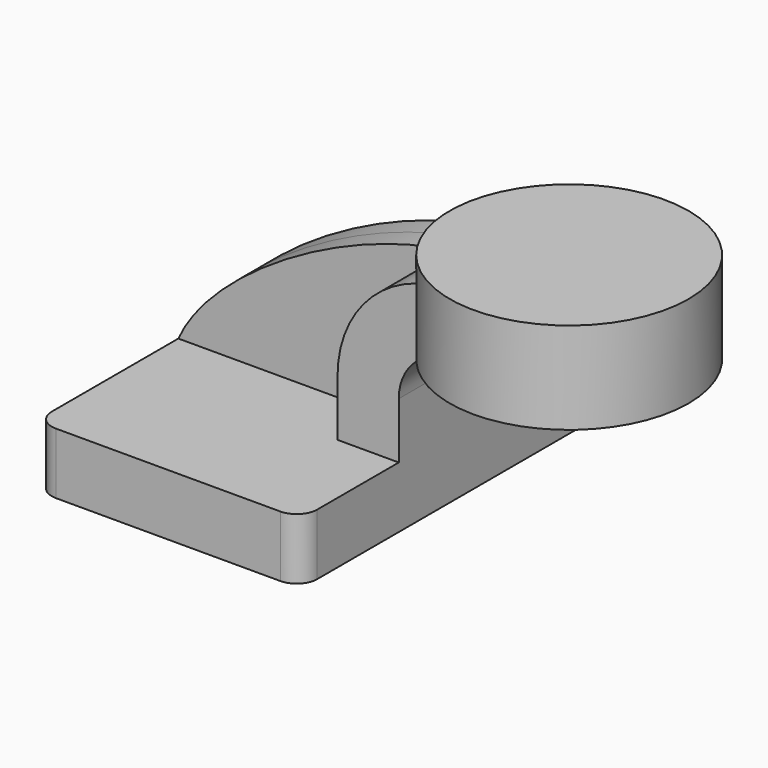
from build123d import *

# Parameters (mm, degrees)
F1_DEPTH = 63.5
F2_DEPTH = 25.4
F3_DEPTH = 7.9375
F0_W     = 37.164882
F0_H     = 28.575
F5_R     = 6.35


with BuildPart() as f1:
    # F0 (on Front) → F1 (new body, symmetric)
    with BuildSketch(Plane.XZ):
        Polygon((-41.275, 9.525), (-41.275, -9.525), (41.275, -9.525), (41.275, 9.525), (22.225, 9.525), align=None)
    extrude(amount=F1_DEPTH, both=True)

    # F0 (on Front) → F2 (join, symmetric)
    with BuildSketch(Plane.XZ):
        with BuildLine():
            Line((22.225, 9.525), (41.275, 9.525))
            Line((41.275, 9.525), (41.275, 27.0002))
            ThreePointArc((41.275, 27.0002), (45.92468, 38.22552), (57.15, 42.8752))
            Line((57.15, 42.8752), (60.325, 42.8752))
            Line((60.325, 42.8752), (60.325, 61.9252))
            Line((60.325, 61.9252), (57.15, 61.9252))
            ThreePointArc((57.15, 61.9252), (32.454296, 51.695904), (22.225, 27.0002))
            Line((22.225, 27.0002), (22.225, 9.525))
        make_face()
        Polygon((60.325, 66.675), (60.325, 61.9252), (60.325, 42.8752), (60.325, 38.1), (73.960118, 38.1), (73.960118, 66.675), align=None)
    extrude(amount=F2_DEPTH, both=True)

    # F0 (on Front) → F3 (join, symmetric)
    with BuildSketch(Plane.XZ):
        with BuildLine():
            add(Edge.make_bspline(
                [(-41.275, 9.525), (-30.2571, 34.45055), (20.033766, 63.231468), (57.15, 61.9252)],
                knots=[0, 0, 0, 0, 111.504536, 111.504536, 111.504536, 111.504536], degree=3))
            Line((-41.275, 9.525), (22.225, 9.525))
            Line((22.225, 9.525), (22.225, 27.0002))
            ThreePointArc((22.225, 27.0002), (32.454296, 51.695904), (57.15, 61.9252))
        make_face()
    extrude(amount=F3_DEPTH, both=True)

    # F0 (on Front) → F4 (revolve)
    with BuildSketch(Plane.XZ):
        with Locations((92.542559, 52.3875)):
            Rectangle(F0_W, F0_H)
    revolve(axis=Axis((73.960118, 0, 52.3875), (0, 0, -1)))

    # F5
    f5_edges = [f1.edges().sort_by_distance(p)[0] for p in [
        (-41.275, -63.5, 0),
        (41.275, -63.5, 0),
        (-41.275, 63.5, 0),
        (41.275, 63.5, 0),
    ]]
    fillet(f5_edges, radius=F5_R)


solid = f1.part
